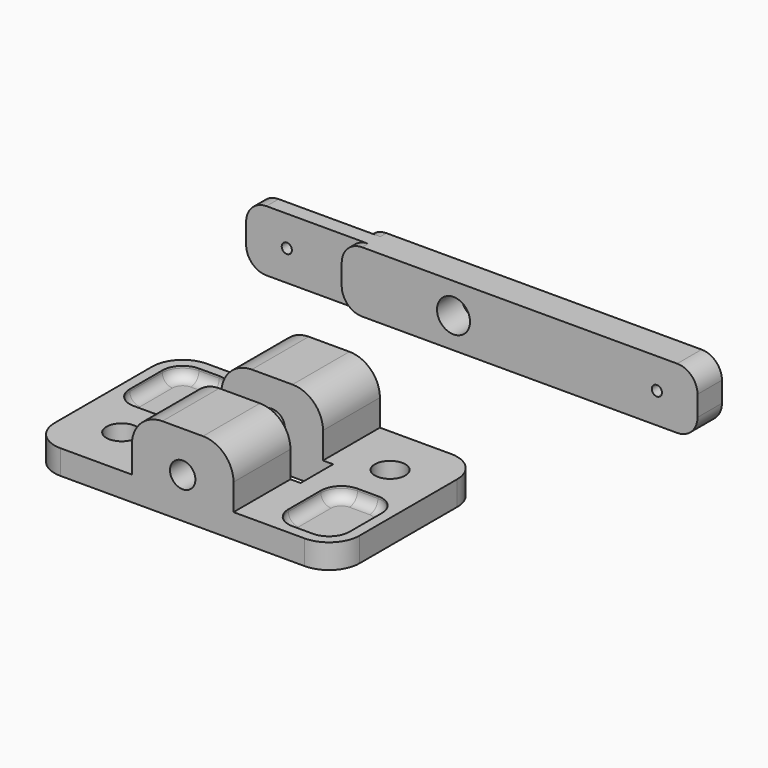
from build123d import *

# Parameters (mm, degrees)
F0_W      = 10
F0_H      = 7
F0_R      = 1.5
F0_W_2    = 6
F0_H_2    = 8
F1_DEPTH  = 2.4
F2_DEPTH  = 8
F3_R      = 1.25
F4_DEPTH  = 25
F5_R      = 3
F6_DEPTH  = 1.2
F7_R      = 2
F8_R      = 1
F10_DEPTH = 6
F11_R     = 0.5
F12_DEPTH = 25
F13_R     = 1.625
F13_R_2   = 0.5
F14_DEPTH = 25
F15_R     = 2


with BuildPart() as f1:
    # F0 (on Top) → F1 (new body)
    with BuildSketch(Plane.XY):
        with Locations((0, 5.5)):
            Rectangle(F0_W, F0_H)
        Polygon((-5, 2), (-5, 9), (-15, 9), (-15, -9), (-5, -9), (-5, -2), (-6, -2), (-6, 2), align=None)
        with Locations((-10, -4)):
            Circle(F0_R, mode=Mode.SUBTRACT)
        with Locations((-11, 4)):
            Rectangle(F0_W_2, F0_H_2, mode=Mode.SUBTRACT)
        with Locations((0, -5.5)):
            Rectangle(F0_W, F0_H)
        Polygon((15, -9), (15, 9), (5, 9), (5, 2), (6, 2), (6, -2), (5, -2), (5, -9), align=None)
        with Locations((11, -4)):
            Rectangle(F0_W_2, F0_H_2, mode=Mode.SUBTRACT)
        with Locations((10, 4)):
            Circle(F0_R, mode=Mode.SUBTRACT)
    extrude(amount=F1_DEPTH)

    # F0 (on Top) → F2 (join)
    with BuildSketch(Plane.XY):
        with Locations((0, -5.5)):
            Rectangle(F0_W, F0_H)
        with Locations((0, 5.5)):
            Rectangle(F0_W, F0_H)
    extrude(amount=F2_DEPTH)

    # F3 (on face) → F4 (cut)
    with BuildSketch(Plane.XZ.offset(9)):
        with Locations((0, 4)):
            Circle(F3_R)
    extrude(amount=-F4_DEPTH, mode=Mode.SUBTRACT)

    # F5
    f5_edges = [f1.edges().sort_by_distance(p)[0] for p in [
        (-5, 5.5, 8),
        (5, 5.5, 8),
        (-5, -5.5, 8),
        (5, -5.5, 8),
        (-15, -9, 1.2),
        (15, -9, 1.2),
        (-15, 9, 1.2),
        (15, 9, 1.2),
    ]]
    fillet(f5_edges, radius=F5_R)

    # F0 (on Top) → F6 (join)
    with BuildSketch(Plane.XY):
        with Locations((-11, 4)):
            Rectangle(F0_W_2, F0_H_2)
        with Locations((11, -4)):
            Rectangle(F0_W_2, F0_H_2)
    extrude(amount=F6_DEPTH)

    # F7
    f7_edges = [f1.edges().sort_by_distance(p)[0] for p in [
        (14, -8, 1.8),
        (8, -8, 1.8),
        (14, 0, 1.8),
        (8, 0, 1.8),
        (-8, 8, 1.8),
        (-14, 8, 1.8),
        (-8, 0, 1.8),
        (-14, 0, 1.8),
    ]]
    fillet(f7_edges, radius=F7_R)

    # F8
    f8_edges = [f1.edges().sort_by_distance(p)[0] for p in [
        (-11, 8, 1.2),
        (-8.585786, 7.414214, 1.2),
        (-13.414214, 7.414214, 1.2),
        (-8, 4, 1.2),
        (-14, 4, 1.2),
        (-8.585786, 0.585786, 1.2),
        (-13.414214, 0.585786, 1.2),
        (-11, 0, 1.2),
        (11, -8, 1.2),
        (8.585786, -7.414214, 1.2),
        (13.414214, -7.414214, 1.2),
        (8, -4, 1.2),
        (14, -4, 1.2),
        (8.585786, -0.585786, 1.2),
        (13.414214, -0.585786, 1.2),
        (11, 0, 1.2),
    ]]
    fillet(f8_edges, radius=F8_R)


with BuildPart() as f10:
    # F9 (on Top) → F10 (new body)
    with BuildSketch(Plane.XY):
        Polygon((-12.5, 26.9275341481), (-12.5, 26.1775341481), (22.5, 26.1775341481), (22.5, 29.1775341481), (-12.5, 29.1775341481), (-12.5, 28.4275341481), (-22.5, 28.4275341481), (-22.5, 26.9275341481), align=None)
    extrude(amount=F10_DEPTH)

    # F11 (on face) → F12 (cut)
    with BuildSketch(Plane.XZ.offset(-26.9275341481)):
        with Locations((-18.5, 3)):
            Circle(F11_R)
    extrude(amount=-F12_DEPTH, mode=Mode.SUBTRACT)

    # F13 (on face) → F14 (cut)
    with BuildSketch(Plane.XZ.offset(-26.1775341481)):
        with Locations((-1.5, 3)):
            Circle(F13_R)
        with Locations((18.5, 3)):
            Circle(F13_R_2)
    extrude(amount=-F14_DEPTH, mode=Mode.SUBTRACT)

    # F15
    f15_edges = [f10.edges().sort_by_distance(p)[0] for p in [
        (-22.5, 27.677534, 6),
        (-22.5, 27.677534, 0),
        (22.5, 27.677534, 6),
        (22.5, 27.677534, 0),
        (-12.5, 26.552534, 0),
        (-12.5, 28.802534, 0),
        (-12.5, 26.552534, 6),
        (-12.5, 28.802534, 6),
    ]]
    fillet(f15_edges, radius=F15_R)


solid = Compound([f1.part, f10.part])
